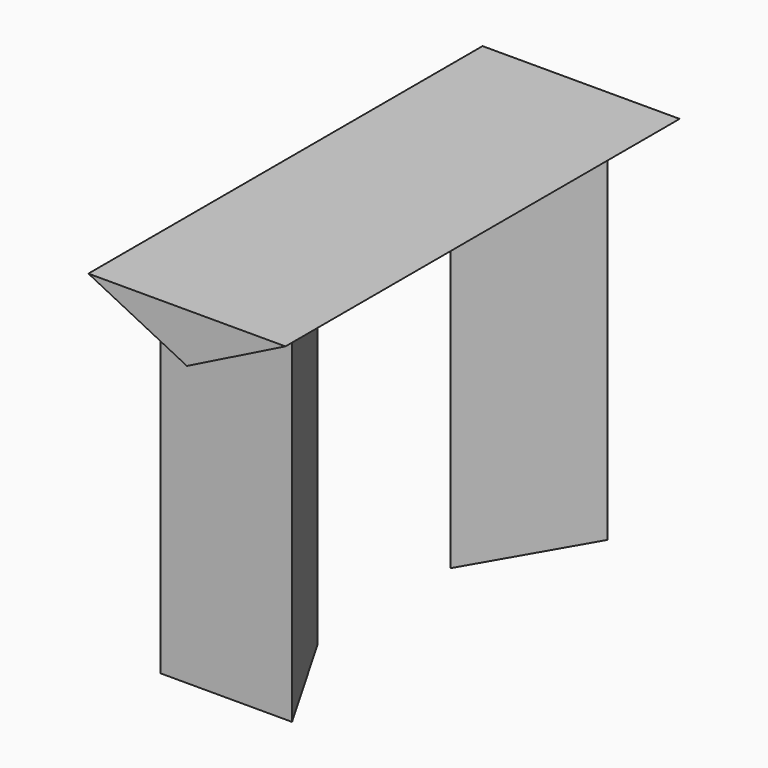
from build123d import *

# Parameters (mm, degrees)
F1_DEPTH = 150
F4_DEPTH = 110


with BuildPart() as f1:
    # F0 (on Front) → F1 (new body)
    with BuildSketch(Plane.XZ):
        Polygon((60, 0), (0, 0), (30, -15), align=None)
    extrude(amount=F1_DEPTH)

    # F3 (on offset) → F4 (join)
    with BuildSketch(Plane.XY.offset(-110)):
        Polygon((30, -100.3589838486), (10, -135), (50, -135), align=None)
        Polygon((30, -49.6410161514), (50, -15), (10, -15), align=None)
    extrude(amount=F4_DEPTH)


solid = f1.part
